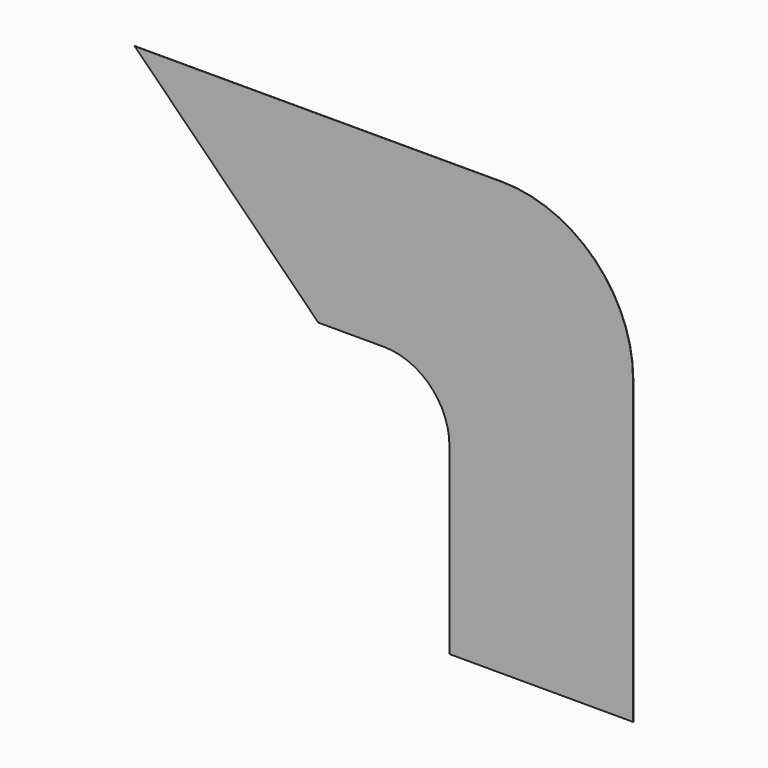
from build123d import *

# Parameters (mm, degrees)
F1_DEPTH = 1.25


with BuildPart() as f1:
    # F0 (on Front) → F1 (new body)
    with BuildSketch(Plane.XZ):
        with BuildLine():
            Line((-450, 0), (0, 0))
            Line((0, 0), (250, 0))
            Line((250, 0), (250, 1150))
            ThreePointArc((250, 1150), (103.553391, 1503.553391), (-250, 1650))
            Line((-250, 1650), (-950, 1650))
            Line((-950, 1650), (-950, 950))
            Line((-950, 950), (-700, 950))
            ThreePointArc((-700, 950), (-523.223305, 876.776695), (-450, 700))
            Line((-450, 700), (-450, 0))
        make_face()
        Polygon((-1650, 1650), (-950, 950), (-950, 1650), align=None)
    extrude(amount=F1_DEPTH)


solid = f1.part
